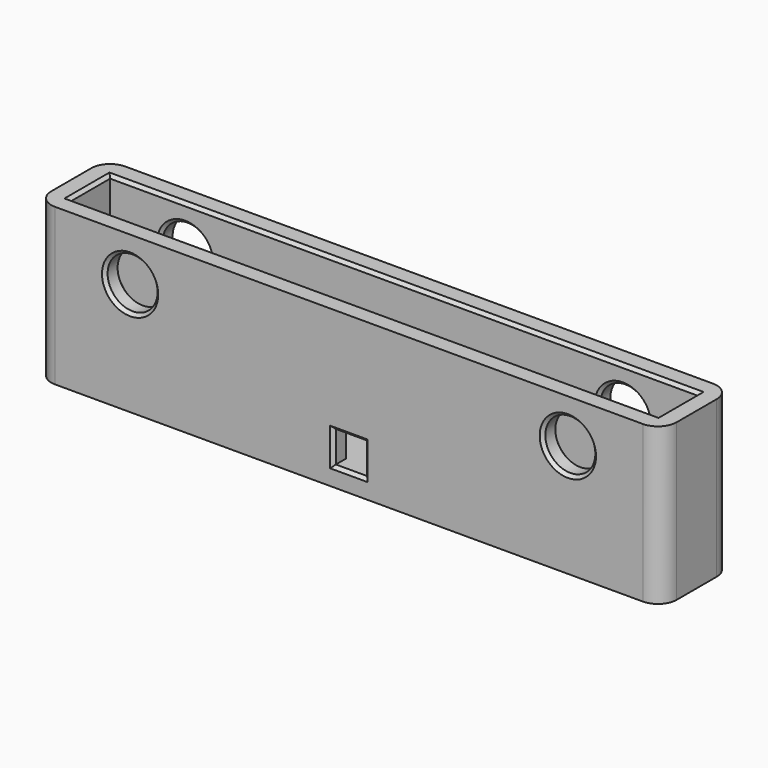
from build123d import *

# Parameters (mm, degrees)
F0_W          = 100
F0_H          = 14
F1_DEPTH      = 25
F2_T          = -3
F3_R          = 4
F3_W          = 5
F3_H          = 5
F4_DEPTH      = 7.001
F4_DEPTH_BACK = 7.001
F5_R          = 3
F6_SIZE       = 0.5
F7_R          = 1


with BuildPart() as f1:
    # F0 (on Top) → F1 (new body)
    with BuildSketch(Plane.XY):
        Rectangle(F0_W, F0_H)
    extrude(amount=F1_DEPTH)

    # F2
    f2_openings = [f1.faces().sort_by_distance(p)[0] for p in [
        (0, 0, 25),
    ]]
    offset(amount=F2_T, openings=f2_openings)

    # F3 (on Front) → F4 (cut, two sides)
    with BuildSketch(Plane.XZ) as f4_sk:
        with Locations((-35, 18)):
            Circle(F3_R)
        with Locations((35, 18)):
            Circle(F3_R)
        with Locations((0, 5.5)):
            Rectangle(F3_W, F3_H)
    extrude(amount=-F4_DEPTH, mode=Mode.SUBTRACT)
    extrude(f4_sk.sketch, amount=F4_DEPTH_BACK, mode=Mode.SUBTRACT)

    # F5
    f5_edges = [f1.edges().sort_by_distance(p)[0] for p in [
        (-50, -7, 12.5),
        (50, -7, 12.5),
        (50, 7, 12.5),
        (-50, 7, 12.5),
    ]]
    fillet(f5_edges, radius=F5_R)

    # F6
    f6_edges = [f1.edges().sort_by_distance(p)[0] for p in [
        (0, 4, 25),
        (0, -4, 25),
        (-47, 0, 25),
        (47, 0, 25),
        (31, 7, 18),
        (39, 5.5, 18),
        (31, 4, 18),
        (31, -4, 18),
        (39, -5.5, 18),
        (31, -7, 18),
        (-39, 7, 18),
        (-31, 5.5, 18),
        (-39, 4, 18),
        (-39, -4, 18),
        (-31, -5.5, 18),
        (-39, -7, 18),
        (-2.5, -4, 5.5),
        (0, -4, 8),
        (2.5, -4, 5.5),
        (-2.5, 4, 5.5),
        (0, 4, 8),
        (2.5, 4, 5.5),
        (-2.5, -7, 5.5),
        (0, -7, 8),
        (2.5, -7, 5.5),
        (0, -7, 3),
        (2.5, 7, 5.5),
        (0, 7, 8),
        (-2.5, 7, 5.5),
        (0, 7, 3),
    ]]
    chamfer(f6_edges, length=F6_SIZE)

    # F7
    f7_edges = [f1.edges().sort_by_distance(p)[0] for p in [
        (-25, 4, 3),
        (-47, 0, 3),
        (-25, -4, 3),
        (25, -4, 3),
        (47, 0, 3),
        (25, 4, 3),
    ]]
    fillet(f7_edges, radius=F7_R)


solid = f1.part
